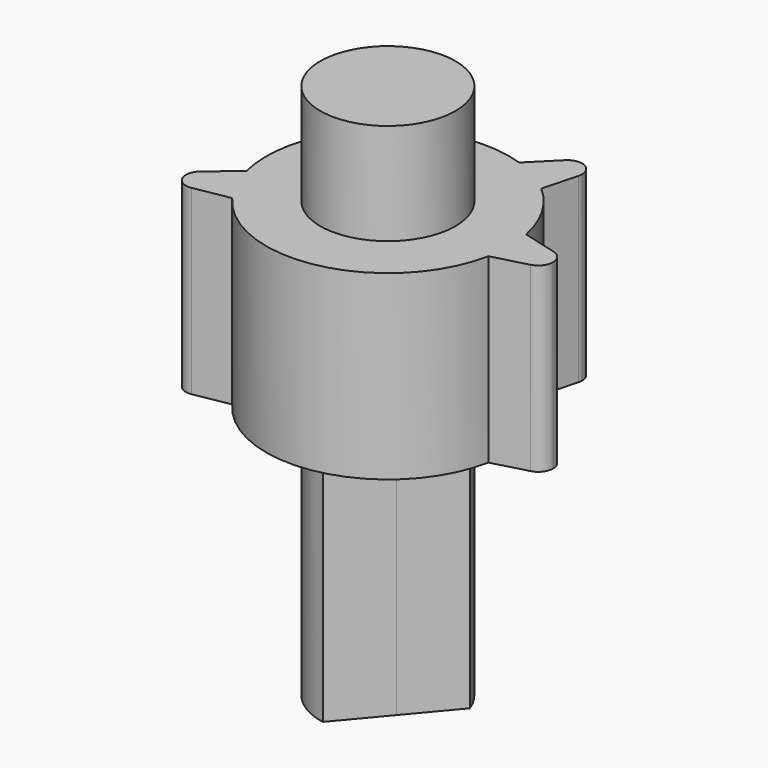
from build123d import *

# Parameters (mm, degrees)
F1_DEPTH = 10.75
F2_R     = 4
F3_DEPTH = 6
F5_DEPTH = 15


with BuildPart() as f1:
    # F0 (on Top) → F1 (new body)
    with BuildSketch(Plane.XY):
        with BuildLine():
            Line((0, 0), (7.2, 0))
            ThreePointArc((7.2, 0), (7.1656564529, 0.7024013095), (7.0629534446, 1.3981017988))
            ThreePointArc((7.0629534446, 1.3981017988), (6.2353829072, 3.6), (4.7422683972, 5.4176462093))
            ThreePointArc((4.7422683972, 5.4176462093), (4.1911256041, 5.8544398682), (3.6, 6.2353829072))
            Line((3.6, 6.2353829072), (0, 0))
        make_face()
        with BuildLine():
            Line((8.025, 0), (7.2, 0))
            ThreePointArc((7.2, 0), (7.1656564529, -0.7024013095), (7.0629534446, -1.3981017988))
            Line((7.0629534446, -1.3981017988), (9.1264666645, -0.845185098))
            ThreePointArc((9.1264666645, -0.845185098), (8.3673337496, -0.6941841728), (8.025, 0))
        make_face()
        with BuildLine():
            ThreePointArc((7.0629534446, -1.3981017988), (7.1656564529, -0.7024013095), (7.2, 0))
            Line((7.2, 0), (0, 0))
            Line((0, 0), (-6.5254160667, -3.0428514845))
            ThreePointArc((-6.5254160667, -3.0428514845), (-6.197442622, -3.6649290508), (-5.8103463543, -4.2520436549))
            ThreePointArc((-5.8103463543, -4.2520436549), (1.5583652204, -7.0293312513), (7.0629534446, -1.3981017988))
        make_face()
        with BuildLine():
            ThreePointArc((7.0629534446, 1.3981017988), (7.1656564529, 0.7024013095), (7.2, 0))
            Line((7.2, 0), (8.025, 0))
            ThreePointArc((8.025, 0), (8.3673337496, 0.6941841728), (9.1264666645, 0.845185098))
            Line((9.1264666645, 0.845185098), (7.0629534446, 1.3981017988))
        make_face()
        with BuildLine():
            Line((-4.1297503417, 5.8978947189), (0, 0))
            Line((0, 0), (3.6, 6.2353829072))
            ThreePointArc((3.6, 6.2353829072), (2.9745308488, 6.5568411777), (2.3206850474, 6.8157480082))
            ThreePointArc((2.3206850474, 6.8157480082), (-0.314059589, 7.1931471954), (-2.9058857202, 6.5875510003))
            ThreePointArc((-2.9058857202, 6.5875510003), (-3.5346782238, 6.272642972), (-4.1297503417, 5.8978947189))
        make_face()
        with BuildLine():
            Line((-6.5254160667, -3.0428514845), (0, 0))
            Line((0, 0), (-4.1297503417, 5.8978947189))
            ThreePointArc((-4.1297503417, 5.8978947189), (-4.6854251609, 5.466881292), (-5.1964016135, 4.9837145054))
            ThreePointArc((-5.1964016135, 4.9837145054), (-6.9546659493, 1.8634971247), (-6.9920730582, -1.7178225601))
            ThreePointArc((-6.9920730582, -1.7178225601), (-6.7911378629, -2.3917454979), (-6.5254160667, -3.0428514845))
        make_face()
        with BuildLine():
            ThreePointArc((9.1264666645, 0.845185098), (8.3673337496, 0.6941841728), (8.025, 0))
            Line((8.025, 0), (8.9, 0))
            Line((8.9, 0), (9.1264666645, 0.845185098))
        make_face()
        with BuildLine():
            Line((8.9, 0), (8.025, 0))
            ThreePointArc((8.025, 0), (8.3673337496, -0.6941841728), (9.1264666645, -0.845185098))
            Line((9.1264666645, -0.845185098), (8.9, 0))
        make_face()
        with BuildLine():
            ThreePointArc((3.6, 6.2353829072), (4.1911256041, 5.8544398682), (4.7422683972, 5.4176462093))
            Line((4.7422683972, 5.4176462093), (5.295185098, 7.4811594292))
            ThreePointArc((5.295185098, 7.4811594292), (4.7848480033, 6.8992315027), (4.0125, 6.9498538654))
            Line((4.0125, 6.9498538654), (3.6, 6.2353829072))
        make_face()
        with BuildLine():
            ThreePointArc((9.775, 0), (9.5941841728, 0.5326662504), (9.1264666645, 0.845185098))
            Line((9.1264666645, 0.845185098), (8.9, 0))
            Line((8.9, 0), (9.1264666645, -0.845185098))
            ThreePointArc((9.1264666645, -0.845185098), (9.5941841728, -0.5326662504), (9.775, 0))
        make_face()
        with BuildLine():
            Line((-7.9141971492, -4.6230093134), (-5.8103463543, -4.2520436549))
            ThreePointArc((-5.8103463543, -4.2520436549), (-6.197442622, -3.6649290508), (-6.5254160667, -3.0428514845))
            Line((-6.5254160667, -3.0428514845), (-7.273119991, -3.3915115505))
            ThreePointArc((-7.273119991, -3.3915115505), (-7.2118802984, -3.5719178673), (-7.1911393046, -3.7613025295))
            ThreePointArc((-7.1911393046, -3.7613025295), (-7.3958504169, -4.323741688), (-7.9141971492, -4.6230093134))
        make_face()
        with BuildLine():
            Line((-7.273119991, -3.3915115505), (-6.5254160667, -3.0428514845))
            ThreePointArc((-6.5254160667, -3.0428514845), (-6.7911378629, -2.3917454979), (-6.9920730582, -1.7178225601))
            Line((-6.9920730582, -1.7178225601), (-8.6285784631, -3.0910136418))
            ThreePointArc((-8.6285784631, -3.0910136418), (-7.8767546424, -2.9070435233), (-7.273119991, -3.3915115505))
        make_face()
        with BuildLine():
            ThreePointArc((2.3206850474, 6.8157480082), (2.9745308488, 6.5568411777), (3.6, 6.2353829072))
            Line((3.6, 6.2353829072), (4.0125, 6.9498538654))
            ThreePointArc((4.0125, 6.9498538654), (3.5824857463, 7.5934156755), (3.8312815665, 8.3263445272))
            Line((3.8312815665, 8.3263445272), (2.3206850474, 6.8157480082))
        make_face()
        with BuildLine():
            Line((-4.6029509017, 6.5736951554), (-4.1297503417, 5.8978947189))
            ThreePointArc((-4.1297503417, 5.8978947189), (-3.5346782238, 6.272642972), (-2.9058857202, 6.5875510003))
            Line((-2.9058857202, 6.5875510003), (-4.542391125, 7.9607420819))
            ThreePointArc((-4.542391125, 7.9607420819), (-4.3118109699, 7.6602441732), (-4.2298302835, 7.2904531942))
            ThreePointArc((-4.2298302835, 7.2904531942), (-4.3286958045, 6.8864231576), (-4.6029509017, 6.5736951554))
        make_face()
        with BuildLine():
            ThreePointArc((-5.1964016135, 4.9837145054), (-4.6854251609, 5.466881292), (-4.1297503417, 5.8978947189))
            Line((-4.1297503417, 5.8978947189), (-4.6029509017, 6.5736951554))
            ThreePointArc((-4.6029509017, 6.5736951554), (-5.3679478581, 6.4559508623), (-5.9270613267, 6.9911855688))
            Line((-5.9270613267, 6.9911855688), (-5.1964016135, 4.9837145054))
        make_face()
        with BuildLine():
            Line((4.45, 7.7076260937), (5.295185098, 7.4811594292))
            ThreePointArc((5.295185098, 7.4811594292), (5.3175142537, 7.5934156755), (5.325, 7.7076260937))
            ThreePointArc((5.325, 7.7076260937), (4.7848480033, 8.5160206846), (3.8312815665, 8.3263445272))
            Line((3.8312815665, 8.3263445272), (4.45, 7.7076260937))
        make_face()
        with BuildLine():
            ThreePointArc((4.0125, 6.9498538654), (4.7848480033, 6.8992315027), (5.295185098, 7.4811594292))
            Line((5.295185098, 7.4811594292), (4.45, 7.7076260937))
            Line((4.45, 7.7076260937), (4.0125, 6.9498538654))
        make_face()
        with BuildLine():
            ThreePointArc((-8.6285784631, -3.0910136418), (-8.8591586183, -4.1310935085), (-7.9141971492, -4.6230093134))
            ThreePointArc((-7.9141971492, -4.6230093134), (-7.3958504169, -4.323741688), (-7.1911393046, -3.7613025295))
            ThreePointArc((-7.1911393046, -3.7613025295), (-7.2118802984, -3.5719178673), (-7.273119991, -3.3915115505))
            ThreePointArc((-7.273119991, -3.3915115505), (-7.8767546424, -2.9070435233), (-8.6285784631, -3.0910136418))
        make_face()
        with BuildLine():
            ThreePointArc((3.8312815665, 8.3263445272), (3.5824857463, 7.5934156755), (4.0125, 6.9498538654))
            Line((4.0125, 6.9498538654), (4.45, 7.7076260937))
            Line((4.45, 7.7076260937), (3.8312815665, 8.3263445272))
        make_face()
        with BuildLine():
            ThreePointArc((-5.9270613267, 6.9911855688), (-5.3679478581, 6.4559508623), (-4.6029509017, 6.5736951554))
            ThreePointArc((-4.6029509017, 6.5736951554), (-4.3286958045, 6.8864231576), (-4.2298302835, 7.2904531942))
            ThreePointArc((-4.2298302835, 7.2904531942), (-4.3118109699, 7.6602441732), (-4.542391125, 7.9607420819))
            ThreePointArc((-4.542391125, 7.9607420819), (-5.6067096653, 8.0072112329), (-5.9270613267, 6.9911855688))
        make_face()
    extrude(amount=F1_DEPTH)

    # F2 (on face) → F3 (join)
    with BuildSketch(Plane.XY.offset(10.75)):
        Circle(F2_R)
    extrude(amount=F3_DEPTH)

    # F4 (on face) → F5 (join)
    with BuildSketch(Plane(origin=(0, 0, 0), x_dir=(1, 0, 0), z_dir=(0, 0, -1))):
        with BuildLine():
            Line((1.5320888862, 1.2855752194), (-0.6945927107, 3.939231012))
            ThreePointArc((-0.6945927107, 3.939231012), (-3.0641777725, -2.5711504387), (3.7587704831, -1.3680805733))
            Line((3.7587704831, -1.3680805733), (1.5320888862, 1.2855752194))
        make_face()
    extrude(amount=F5_DEPTH)


solid = f1.part
